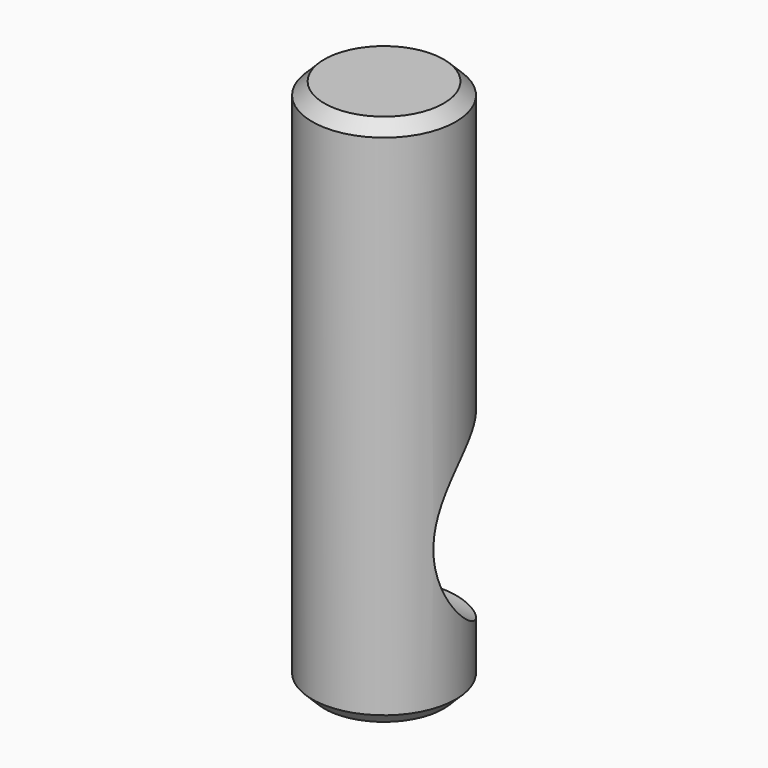
from build123d import *

# Parameters (mm, degrees)
F0_R     = 2.9972
F1_DEPTH = 22.225
F2_R     = 3.96875
F3_DEPTH = 12.7
F5_SIZE  = 0.508


with BuildPart() as f1:
    # F0 (on Top) → F1 (new body)
    with BuildSketch(Plane.XY):
        Circle(F0_R)
    extrude(amount=F1_DEPTH)


with BuildPart() as f3:
    # F2 (on Right) → F3 (new body, symmetric)
    with BuildSketch(Plane.YZ):
        with Locations((2.9972, 6.35)):
            Circle(F2_R)
    extrude(amount=F3_DEPTH, both=True)


with BuildPart() as f1_1:
    add(f1.part)

    # F4: cut F3
    add(f3.part, mode=Mode.SUBTRACT)

    # F5
    f5_edges = [f1_1.edges().sort_by_distance(p)[0] for p in [
        (-2.9972, 0, 22.225),
        (-2.9972, 0, 0),
    ]]
    chamfer(f5_edges, length=F5_SIZE)


solid = f1_1.part
